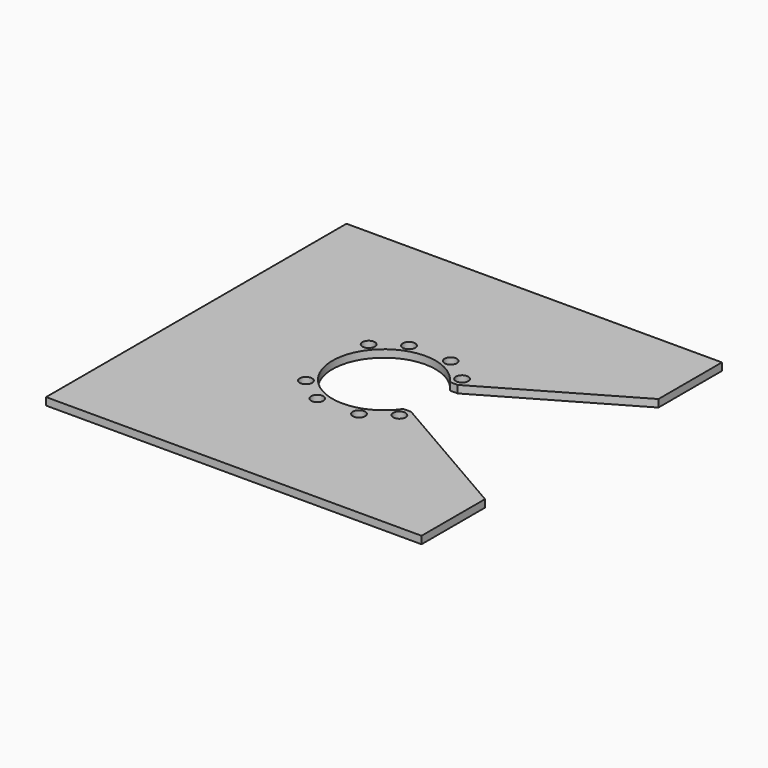
from build123d import *

# Parameters (mm, degrees)
F0_R     = 16.5
F1_DEPTH = 20


with BuildPart() as f1:
    # F0 (on Top) → F1 (new body)
    with BuildSketch(Plane.XY):
        with BuildLine():
            ThreePointArc((113.578167, -77.5), (-137.5, 0), (113.578167, 77.5))
            Line((113.578167, 77.5), (134.233938, 77.5))
            Line((134.233938, 77.5), (500, 288.675135))
            Line((500, 288.675135), (500, 500))
            Line((500, 500), (-500, 500))
            Line((-500, 500), (-500, -500))
            Line((-500, -500), (500, -500))
            Line((500, -500), (500, -288.675135))
            Line((500, -288.675135), (134.233938, -77.5))
            Line((134.233938, -77.5), (113.578167, -77.5))
        make_face()
        with Locations((-55.578273, -152.700051)):
            Circle(F0_R, mode=Mode.SUBTRACT)
        with Locations((-124.482222, -104.452987)):
            Circle(F0_R, mode=Mode.SUBTRACT)
        with Locations((55.578273, -152.700051)):
            Circle(F0_R, mode=Mode.SUBTRACT)
        with Locations((124.482222, -104.452987)):
            Circle(F0_R, mode=Mode.SUBTRACT)
        with Locations((-124.482222, 104.452987)):
            Circle(F0_R, mode=Mode.SUBTRACT)
        with Locations((-55.578273, 152.700051)):
            Circle(F0_R, mode=Mode.SUBTRACT)
        with Locations((124.482222, 104.452987)):
            Circle(F0_R, mode=Mode.SUBTRACT)
        with Locations((55.578273, 152.700051)):
            Circle(F0_R, mode=Mode.SUBTRACT)
    extrude(amount=F1_DEPTH)


solid = f1.part
